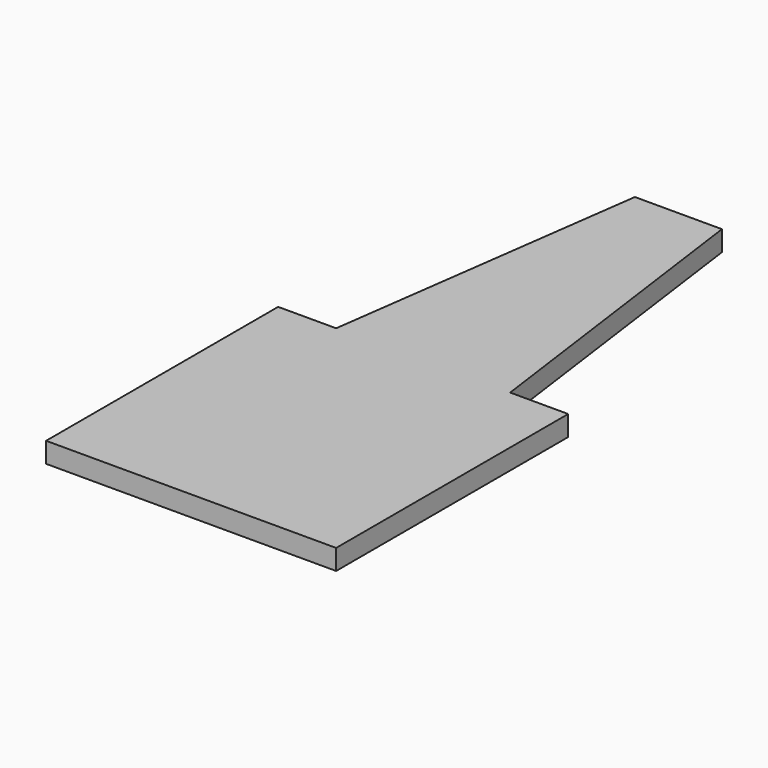
from build123d import *

# Parameters (mm, degrees)
F1_DEPTH = 3.5


with BuildPart() as f1:
    # F0 (on Top) → F1 (new body)
    with BuildSketch(Plane.XY):
        Polygon((-25, -25), (25, -25), (25, 25), (15, 25), (-15, 25), (-25, 25), align=None)
        Polygon((-15, 25), (15, 25), (7.5, 80), (-7.5, 80), align=None)
    extrude(amount=F1_DEPTH)


solid = f1.part
